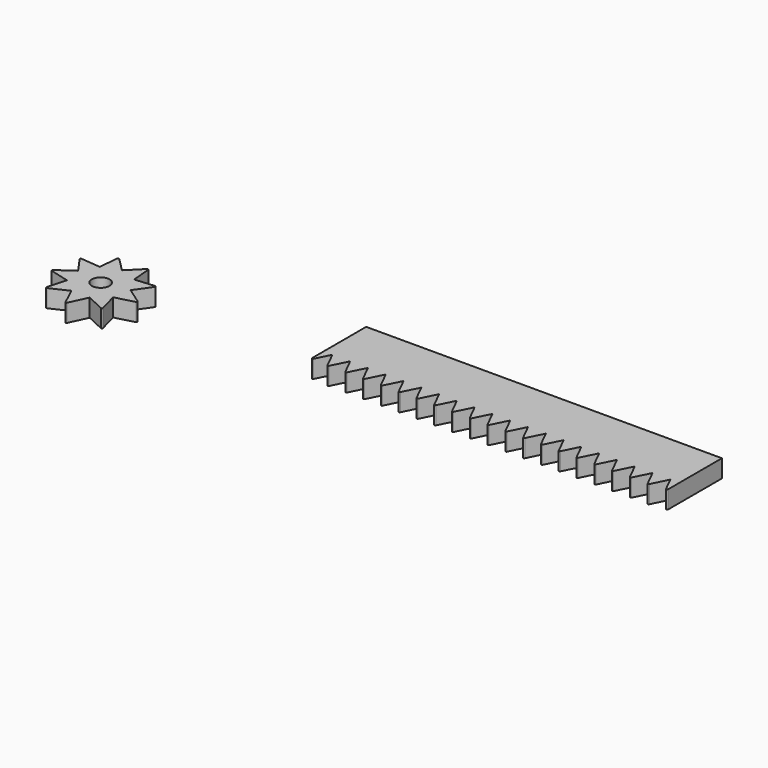
from build123d import *

# Parameters (mm, degrees)
F1_DEPTH = 5
F2_R     = 0.25
F3_R     = 2.5
F4_DEPTH = 5
F5_R     = 0.25


with BuildPart() as f1:
    # F0 (on Top) → F1 (new body)
    with BuildSketch(Plane.XY):
        Polygon((100, 20), (0, 20), (0, 0), (2.5, 5), (5, 0), (7.5, 5), (10, 0), (12.5, 5), (15, 0), (17.5, 5), (20, 0), (22.5, 5), (25, 0), (27.5, 5), (30, 0), (32.5, 5), (35, 0), (37.5, 5), (40, 0), (42.5, 5), (45, 0), (47.5, 5), (50, 0), (52.5, 5), (55, 0), (57.5, 5), (60, 0), (62.5, 5), (65, 0), (67.5, 5), (70, 0), (72.5, 5), (75, 0), (77.5, 5), (80, 0), (82.5, 5), (85, 0), (87.5, 5), (90, 0), (92.5, 5), (95, 0), (97.5, 5), (100, 0), align=None)
    extrude(amount=F1_DEPTH)

    # F2
    f2_edges = [f1.edges().sort_by_distance(p)[0] for p in [
        (5, 0, 2.5),
        (10, 0, 2.5),
        (15, 0, 2.5),
        (0, 0, 2.5),
        (20, 0, 2.5),
        (25, 0, 2.5),
        (30, 0, 2.5),
        (35, 0, 2.5),
        (40, 0, 2.5),
        (45, 0, 2.5),
        (50, 0, 2.5),
        (55, 0, 2.5),
        (60, 0, 2.5),
        (65, 0, 2.5),
        (70, 0, 2.5),
        (80, 0, 2.5),
        (85, 0, 2.5),
        (90, 0, 2.5),
        (95, 0, 2.5),
        (100, 0, 2.5),
        (75, 0, 2.5),
    ]]
    fillet(f2_edges, radius=F2_R)


with BuildPart() as f4:
    # F3 (on Top) → F4 (new body)
    with BuildSketch(Plane.XY):
        Polygon((-53.828175, 5.745333), (-54.357181, 11.791901), (-58.649082, 7.5), (-62.940983, 11.791901), (-63.469989, 5.745333), (-69.516557, 6.274339), (-66.03514, 1.302361), (-71.007118, -2.179055), (-65.144272, -3.75), (-66.715217, -9.612846), (-61.214233, -7.047695), (-58.649082, -12.548679), (-56.083931, -7.047695), (-50.582947, -9.612846), (-52.153891, -3.75), (-46.291046, -2.179055), (-51.263024, 1.302361), (-47.781607, 6.274339), align=None)
        with Locations((-58.649082, 0)):
            Circle(F3_R, mode=Mode.SUBTRACT)
    extrude(amount=F4_DEPTH)

    # F5
    f5_edges = [f4.edges().sort_by_distance(p)[0] for p in [
        (-62.940983, 11.791901, 2.5),
        (-54.357181, 11.791901, 2.5),
        (-47.781607, 6.274339, 2.5),
        (-46.291046, -2.179055, 2.5),
        (-50.582947, -9.612846, 2.5),
        (-58.649082, -12.548679, 2.5),
        (-66.715217, -9.612846, 2.5),
        (-71.007118, -2.179055, 2.5),
        (-69.516557, 6.274339, 2.5),
    ]]
    fillet(f5_edges, radius=F5_R)


solid = Compound([f1.part, f4.part])
